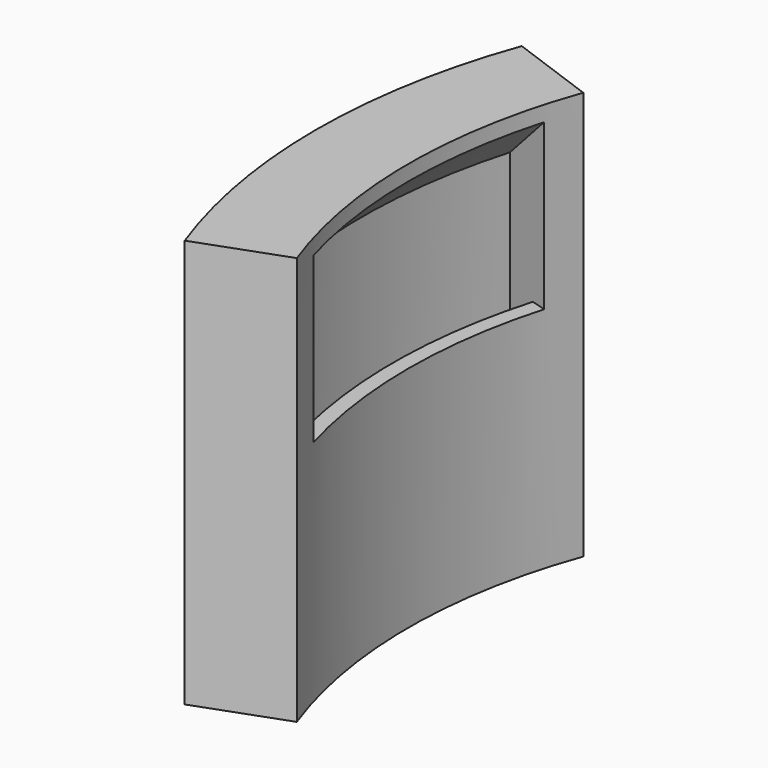
from build123d import *

# Parameters (mm, degrees)
F1_ANGLE = 40
F2_ANGLE = -32


with BuildPart() as f1:
    # F0 (on Front) → F1 (revolve, symmetric)
    with BuildSketch(Plane.XZ) as f1_sk:
        Polygon((-37, 22.516388), (-34, 25.516388), (-34, 26.516388), (-40, 26.516388), (-40, 0), (-34, 0), (-34, 8.81827), (-34, 9.81827), (-34, 14.81827), (-35, 14.81827), (-35, 13.818642), (-35, 9.81827), (-37, 9.81827), (-37, 20.516388), align=None)
        Polygon((-34, 20.516388), (-34, 25.016388), (-34, 25.516388), (-37, 22.516388), (-37, 20.516388), (-37, 9.81827), (-35, 9.81827), (-35, 13.818642), (-35, 14.81827), (-34, 14.81827), align=None)
    revolve(axis=Axis((0, 0, 22.766388), (0, 0, -1)), revolution_arc=F1_ANGLE / 2)
    revolve(f1_sk.sketch, axis=Axis((0, 0, 22.766388), (0, 0, 1)), revolution_arc=F1_ANGLE / 2)

    # F0 (on Front) → F2 (revolve, symmetric, cut)
    with BuildSketch(Plane.XZ) as f2_sk:
        Polygon((-34, 20.516388), (-34, 25.016388), (-34, 25.516388), (-37, 22.516388), (-37, 20.516388), (-37, 9.81827), (-35, 9.81827), (-35, 13.818642), (-35, 14.81827), (-34, 14.81827), align=None)
    revolve(axis=Axis((0, 0, 22.766388), (0, 0, -1)), revolution_arc=F2_ANGLE / 2, mode=Mode.SUBTRACT)
    revolve(f2_sk.sketch, axis=Axis((0, 0, 22.766388), (0, 0, 1)), revolution_arc=F2_ANGLE / 2, mode=Mode.SUBTRACT)


solid = f1.part
